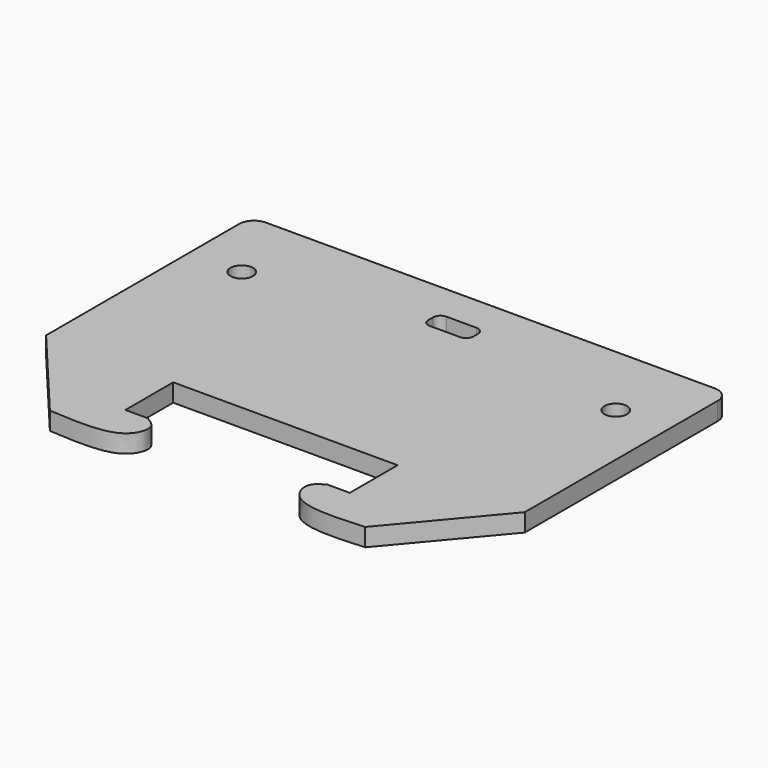
from build123d import *

# Parameters (mm, degrees)
F0_R     = 1.5
F1_DEPTH = 2.4


with BuildPart() as f1:
    # F0 (on Top) → F1 (new body)
    with BuildSketch(Plane.XY):
        with BuildLine():
            Line((0, 15.125), (-30, 15.125))
            ThreePointArc((-30, 15.125), (-31.4142135624, 14.5392135624), (-32, 13.125))
            Line((-32, 13.125), (-32, -15.125))
            Line((-32, -15.125), (32, -15.125))
            Line((32, -15.125), (32, 13.125))
            ThreePointArc((32, 13.125), (31.4142135624, 14.5392135624), (30, 15.125))
            Line((30, 15.125), (0, 15.125))
        make_face()
        with Locations((-25, 4.825)):
            Circle(F0_R, mode=Mode.SUBTRACT)
        with BuildLine():
            Line((-2, 10.285), (0, 10.285))
            Line((0, 10.285), (2, 10.285))
            ThreePointArc((2, 10.285), (2.7071067812, 9.9921067812), (3, 9.285))
            Line((3, 9.285), (3, 8.5625))
            ThreePointArc((3, 8.5625), (2.7071067812, 7.8553932188), (2, 7.5625))
            Line((2, 7.5625), (0, 7.5625))
            Line((0, 7.5625), (-2.1, 7.5625))
            ThreePointArc((-2.1, 7.5625), (-2.7363961031, 7.8261038969), (-3, 8.4625))
            Line((-3, 8.4625), (-3, 9.285))
            ThreePointArc((-3, 9.285), (-2.7071067812, 9.9921067812), (-2, 10.285))
        make_face(mode=Mode.SUBTRACT)
        with Locations((25, 4.825)):
            Circle(F0_R, mode=Mode.SUBTRACT)
        Polygon((32, -15.125), (-32, -15.125), (-32, -19.125), (-15, -19.125), (0, -19.125), (15, -19.125), (32, -19.125), align=None)
        with BuildLine():
            Line((-15, -19.125), (-32, -19.125))
            Line((-32, -19.125), (-21.0726106353, -32.147755533))
            add(Edge.make_bspline(
                [(-21.0726106353, -32.147755533), (-17.3698433438, -32.3941137596), (-11.5299816466, -32.7826604485), (-9.9449620452, -28.3358600834), (-11.3646535712, -27.4993559227), (-12, -27.125)],
                knots=[0, 0, 0, 0, 0.4890736176, 0.7713480383, 1, 1, 1, 1], degree=3))
            Line((-12, -27.125), (-15, -27.125))
            Line((-15, -27.125), (-15, -19.125))
        make_face()
        with BuildLine():
            Line((21.0726106353, -32.147755533), (32, -19.125))
            Line((32, -19.125), (15, -19.125))
            Line((15, -19.125), (15, -27.125))
            Line((15, -27.125), (12, -27.125))
            add(Edge.make_bspline(
                [(21.0726106353, -32.147755533), (17.3698433438, -32.3941137596), (11.5299816466, -32.7826604485), (9.9449620452, -28.3358600834), (11.3646535712, -27.4993559227), (12, -27.125)],
                knots=[0, 0, 0, 0, 0.4890736176, 0.7713480383, 1, 1, 1, 1], degree=3))
        make_face()
    extrude(amount=F1_DEPTH)


solid = f1.part
